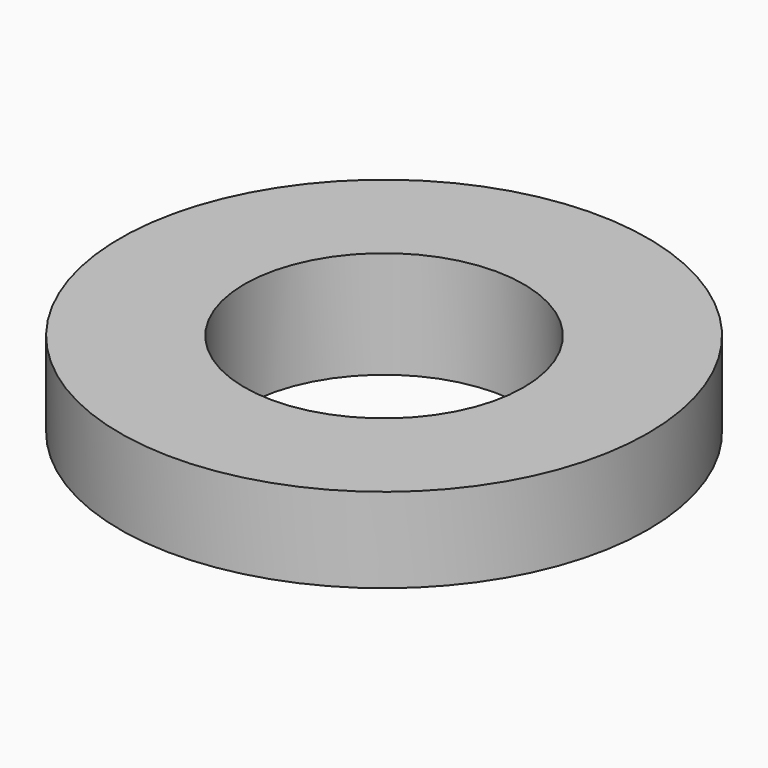
from build123d import *

# Parameters (mm, degrees)
SKETCH043_R     = 6
PAD021_DEPTH    = 3
SKETCH044_R     = 3.175
POCKET021_DEPTH = 3.001


with BuildPart() as part:
    # Sketch043 → Pad021 (new body)
    with BuildSketch(Plane.XY):
        Circle(SKETCH043_R)
    extrude(amount=PAD021_DEPTH)

    # Sketch044 (on Face3 of Pad021) → Pocket021 (cut, through all)
    with BuildSketch(Plane.XY.offset(3)):
        Circle(SKETCH044_R)
    extrude(amount=-POCKET021_DEPTH, mode=Mode.SUBTRACT)

    # Sketch045 → Groove001 (revolve, cut)
    with BuildSketch(Plane.XZ):
        Polygon((0, 0), (12.888196, 2.299908), (13.181708, 0), align=None)
    revolve(axis=Axis((0, 0, 0), (0, 0, 1)), mode=Mode.SUBTRACT)


with BuildPart() as part_1:
    # Body010 placement: moved
    add(part.part.moved(Location((0, 0, 16))))


solid = part_1.part
